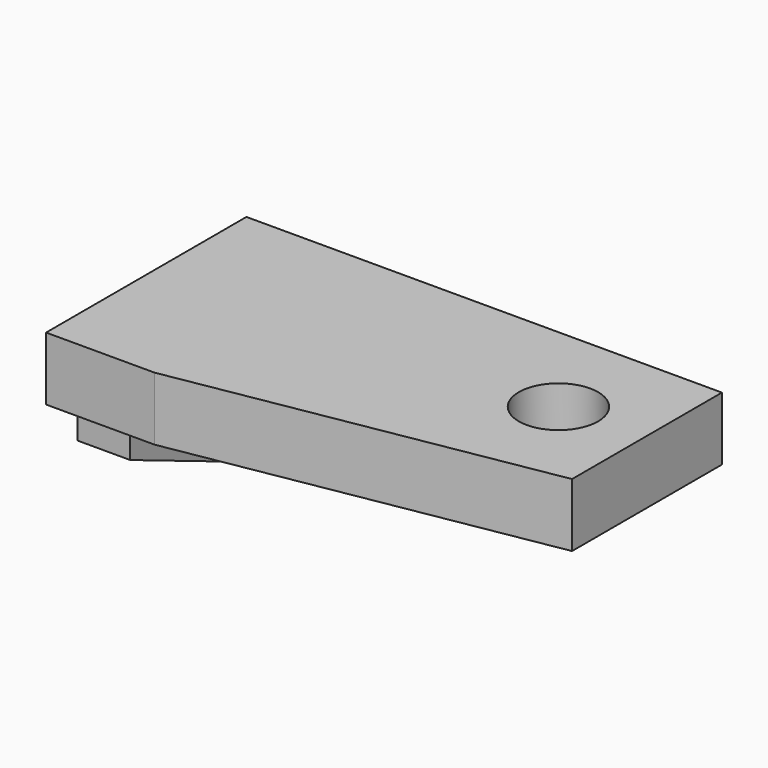
from build123d import *

# Parameters (mm, degrees)
F1_DEPTH = 10.922
F2_DEPTH = 60.198
F0_W     = 12.6999963462
F0_H     = 22.8600017996
F3_DEPTH = 50.8
F5_DEPTH = 25.4
F6_R     = 9.525
F7_DEPTH = 25.4
F8_DEPTH = 25.4


with BuildPart() as f1:
    # F0 (on Front) → F1 (new body)
    with BuildSketch(Plane.XZ):
        Polygon((10.2849198341, 23.9218054244), (-13.2440533489, 23.9218054244), (-40.5150838196, 23.9218054244), (-40.5150838196, 1.0618036248), align=None)
    extrude(amount=F1_DEPTH)

    # F0 (on Front) → F2 (join)
    with BuildSketch(Plane.XZ):
        Polygon((-13.2440533489, 39.1618055656), (-53.2150801659, 39.1618055656), (-53.2150801659, 23.9218054244), (-40.5150838196, 23.9218054244), (-13.2440533489, 23.9218054244), align=None)
        Polygon((61.0849198341, 39.1618055656), (-13.2440533489, 39.1618055656), (-13.2440533489, 23.9218054244), (10.2849198341, 23.9218054244), (61.0849198341, 23.9218054244), align=None)
    extrude(amount=F2_DEPTH)

    # F0 (on Front) → F3 (join)
    with BuildSketch(Plane.XZ):
        with Locations((-46.8650819927, 12.4918045246)):
            Rectangle(F0_W, F0_H)
    extrude(amount=F3_DEPTH)

    # F4 (on face) → F5 (cut)
    with BuildSketch(Plane.YZ.offset(-40.5150838196)):
        Polygon((-23.4362483025, 1.0618036248), (-50.8, 12.4918045246), (-50.8, 1.0618036248), align=None)
    extrude(amount=-F5_DEPTH, mode=Mode.SUBTRACT)

    # F6 (on face) → F7 (cut)
    with BuildSketch(Plane(origin=(0, 0, 23.9218054244), x_dir=(1, 0, 0), z_dir=(0, 0, -1))):
        Polygon((61.0849198341, 60.198), (-27.1072126925, 60.198), (61.0849198341, 45.0329519808), align=None)
        with Locations((40.7223813236, 23.666460067)):
            Circle(F6_R)
    extrude(amount=-F7_DEPTH, mode=Mode.SUBTRACT)

    # F6 (on face) → F8 (cut)
    with BuildSketch(Plane(origin=(0, 0, 23.9218054244), x_dir=(1, 0, 0), z_dir=(0, 0, -1))):
        Polygon((61.0849198341, 60.198), (-27.1072126925, 60.198), (61.0849198341, 45.0329519808), align=None)
        with Locations((40.7223813236, 23.666460067)):
            Circle(F6_R)
    extrude(amount=-F8_DEPTH, mode=Mode.SUBTRACT)


solid = f1.part
